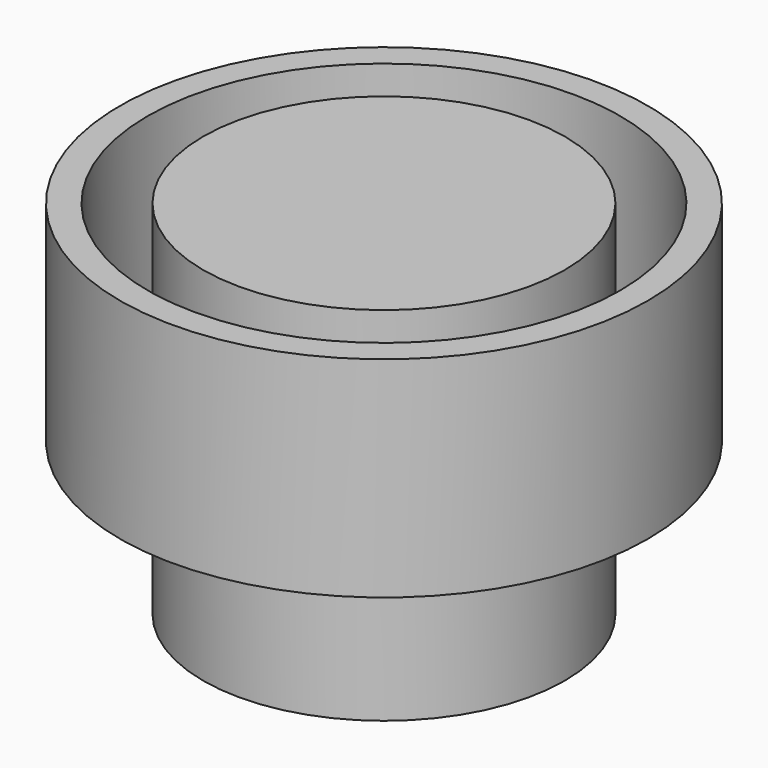
from build123d import *

# Parameters (mm, degrees)
F0_R     = 38.1
F1_DEPTH = 76.2
F2_R     = 55.626001
F2_R_2   = 49.784001
F3_DEPTH = 44.196


with BuildPart() as f1:
    # F0 (on Top) → F1 (new body)
    with BuildSketch(Plane.XY):
        Circle(F0_R)
    extrude(amount=F1_DEPTH)


with BuildPart() as f3:
    # F2 (on face) → F3 (new body)
    with BuildSketch(Plane.XY.offset(76.2)):
        Circle(F2_R)
        Circle(F2_R_2, mode=Mode.SUBTRACT)
    extrude(amount=-F3_DEPTH)


solid = Compound([f1.part, f3.part])
